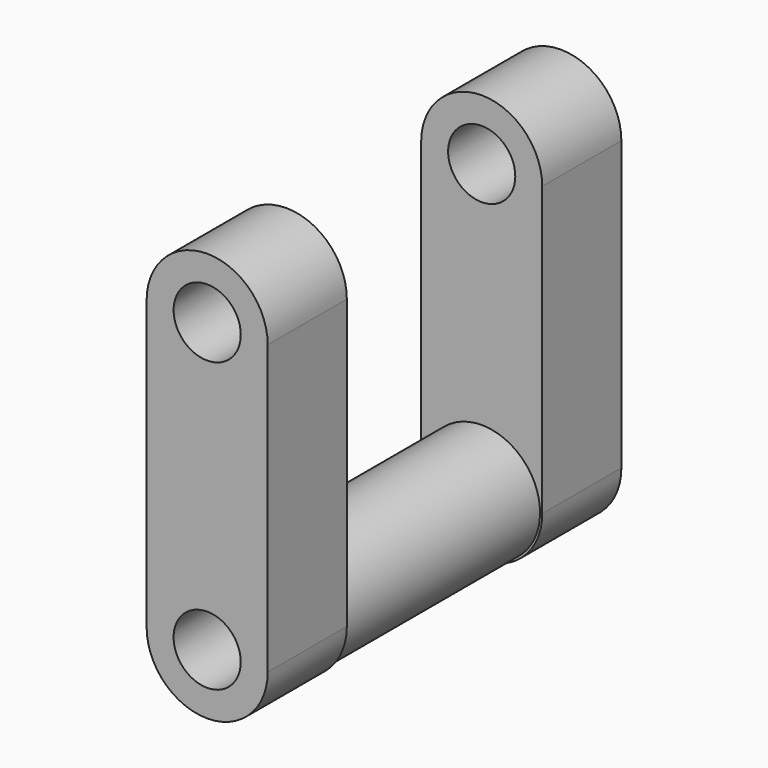
from build123d import *

# Parameters (mm, degrees)
F2_DEPTH = 20.574
F4_R     = 12.142454
F4_R_2   = 6.985
F5_DEPTH = 50.8


with BuildPart() as f2:
    # F1 (on offset) → F2 (new body)
    with BuildSketch(Plane.XZ.offset(25.4)):
        with BuildLine():
            ThreePointArc((-6.985, 37.295498), (0, 44.280498), (6.985, 37.295498))
            Line((6.985, 37.295498), (12.591215, 37.295498))
            ThreePointArc((12.591215, 37.295498), (0, 49.886713), (-12.591215, 37.295498))
            Line((-12.591215, 37.295498), (-6.985, 37.295498))
        make_face()
        with BuildLine():
            Line((12.591215, 37.295498), (6.985, 37.295498))
            ThreePointArc((6.985, 37.295498), (0, 30.310498), (-6.985, 37.295498))
            Line((-6.985, 37.295498), (-12.591215, 37.295498))
            Line((-12.591215, 37.295498), (-12.591215, -22.632312))
            Line((-12.591215, -22.632312), (-6.985, -22.632312))
            ThreePointArc((-6.985, -22.632312), (0, -15.647312), (6.985, -22.632312))
            Line((6.985, -22.632312), (12.591215, -22.632312))
            Line((12.591215, -22.632312), (12.591215, 37.295498))
        make_face()
        with BuildLine():
            ThreePointArc((-12.591215, -22.632312), (0, -35.223527), (12.591215, -22.632312))
            Line((12.591215, -22.632312), (6.985, -22.632312))
            ThreePointArc((6.985, -22.632312), (0, -29.617312), (-6.985, -22.632312))
            Line((-6.985, -22.632312), (-12.591215, -22.632312))
        make_face()
    extrude(amount=F2_DEPTH)


with BuildPart() as f3_1:
    # F3: instance of F2
    add(f2.part.mirror(Plane.XZ))


with BuildPart() as f5:
    # F4 (on face) → F5 (new body, through all)
    with BuildSketch(Plane(origin=(0, -25.4, 0), x_dir=(-1, 0, 0), z_dir=(0, 1, 0))):
        with Locations((0, -22.632312)):
            Circle(F4_R)
        with Locations((0, -22.632312)):
            Circle(F4_R_2, mode=Mode.SUBTRACT)
    extrude(amount=F5_DEPTH)


solid = Compound([f2.part, f3_1.part, f5.part])
